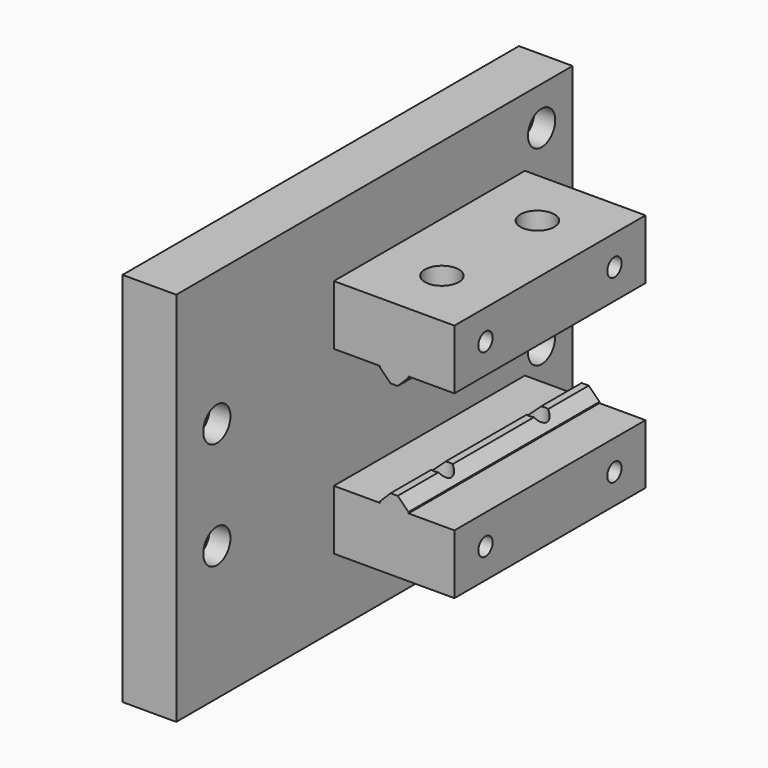
from build123d import *

# Parameters (mm, degrees)
F1_W      = 9
F1_H      = 83
F2_DEPTH  = 63
F3_R      = 2.85
F4_DEPTH  = 3.5
F5_R      = 1.6
F6_DEPTH  = 25
F7_W      = 40
F7_H      = 10
F8_DEPTH  = 20.2
F9_W      = 4.8
F9_H      = 40
F10_DEPTH = 2
F11_SIZE  = 1.8
F12_R     = 1.6
F13_DEPTH = 25
F14_W     = 4.8
F14_H     = 40
F15_DEPTH = 2
F16_SIZE  = 1.8
F17_R     = 1.6
F18_DEPTH = 25
F19_R     = 2.85
F20_DEPTH = 3.5
F21_R     = 2.85
F22_DEPTH = 3.5
F23_R     = 1.5
F24_DEPTH = 10


with BuildPart() as f2:
    # F1 (on Top) → F2 (new body)
    with BuildSketch(Plane.XY):
        with Locations((4.5, 41.5)):
            Rectangle(F1_W, F1_H)
        with Locations((4.5, 41.5)):
            Rectangle(F1_W, F1_H)
    extrude(amount=F2_DEPTH)

    # F3 (on face) → F4 (cut)
    with BuildSketch(Plane.YZ.offset(9)):
        with Locations((8.5, 40.5)):
            Circle(F3_R)
        with Locations((8.5, 22.5)):
            Circle(F3_R)
        with Locations((76.5, 56.5)):
            Circle(F3_R)
        with Locations((76.5, 38.5)):
            Circle(F3_R)
        with Locations((76.5, 24.5)):
            Circle(F3_R)
        with Locations((76.5, 6.5)):
            Circle(F3_R)
        with Locations((8.5, 40.5)):
            Circle(F3_R)
    extrude(amount=-F4_DEPTH, mode=Mode.SUBTRACT)

    # F5 (on face) → F6 (cut)
    with BuildSketch(Plane.YZ.offset(9)):
        with Locations((8.5, 40.5)):
            Circle(F5_R)
        with Locations((8.5, 22.5)):
            Circle(F5_R)
        with Locations((76.5, 24.5)):
            Circle(F5_R)
        with Locations((76.5, 38.5)):
            Circle(F5_R)
        with Locations((76.5, 56.5)):
            Circle(F5_R)
        with Locations((76.5, 6.5)):
            Circle(F5_R)
    extrude(amount=-F6_DEPTH, mode=Mode.SUBTRACT)

    # F7 (on face) → F8 (join)
    with BuildSketch(Plane.YZ.offset(9)):
        with Locations((53, 16.4)):
            Rectangle(F7_W, F7_H)
        with Locations((53, 46.6)):
            Rectangle(F7_W, F7_H)
    extrude(amount=F8_DEPTH)

    # F9 (on face) → F10 (join)
    with BuildSketch(Plane(origin=(0, 0, 41.6), x_dir=(1, 0, 0), z_dir=(0, 0, -1))):
        with Locations((19.1, -53)):
            Rectangle(F9_W, F9_H)
    extrude(amount=F10_DEPTH)

    # F11
    f11_edges = [f2.edges().sort_by_distance(p)[0] for p in [
        (21.5, 53, 39.6),
        (16.7, 53, 39.6),
    ]]
    chamfer(f11_edges, length=F11_SIZE)

    # F12 (on face) → F13 (cut)
    with BuildSketch(Plane(origin=(0, 0, 39.6), x_dir=(1, 0, 0), z_dir=(0, 0, -1))):
        with Locations((19.1, -43)):
            Circle(F12_R)
        with Locations((19.1, -63)):
            Circle(F12_R)
    extrude(amount=-F13_DEPTH, mode=Mode.SUBTRACT)

    # F14 (on face) → F15 (join)
    with BuildSketch(Plane.XY.offset(21.4)):
        with Locations((19.1, 53)):
            Rectangle(F14_W, F14_H)
    extrude(amount=F15_DEPTH)

    # F16
    f16_edges = [f2.edges().sort_by_distance(p)[0] for p in [
        (21.5, 53, 23.4),
        (16.7, 53, 23.4),
    ]]
    chamfer(f16_edges, length=F16_SIZE)

    # F17 (on face) → F18 (cut)
    with BuildSketch(Plane.XY.offset(23.4)):
        with Locations((19.1, 43)):
            Circle(F17_R)
        with Locations((19.1, 63)):
            Circle(F17_R)
    extrude(amount=-F18_DEPTH, mode=Mode.SUBTRACT)

    # F19 (on face) → F20 (cut)
    with BuildSketch(Plane(origin=(0, 0, 11.4), x_dir=(1, 0, 0), z_dir=(0, 0, -1))):
        with Locations((19.1, -43)):
            Circle(F19_R)
        with Locations((19.1, -63)):
            Circle(F19_R)
    extrude(amount=-F20_DEPTH, mode=Mode.SUBTRACT)

    # F21 (on face) → F22 (cut)
    with BuildSketch(Plane.XY.offset(51.6)):
        with Locations((19.1, 63)):
            Circle(F21_R)
        with Locations((19.1, 43)):
            Circle(F21_R)
    extrude(amount=-F22_DEPTH, mode=Mode.SUBTRACT)

    # F23 (on face) → F24 (cut)
    with BuildSketch(Plane.YZ.offset(29.2)):
        with Locations((66.5, 16.4)):
            Circle(F23_R)
        with Locations((39.5, 16.4)):
            Circle(F23_R)
        with Locations((39.5, 46.6)):
            Circle(F23_R)
        with Locations((66.5, 46.6)):
            Circle(F23_R)
    extrude(amount=-F24_DEPTH, mode=Mode.SUBTRACT)


solid = f2.part
